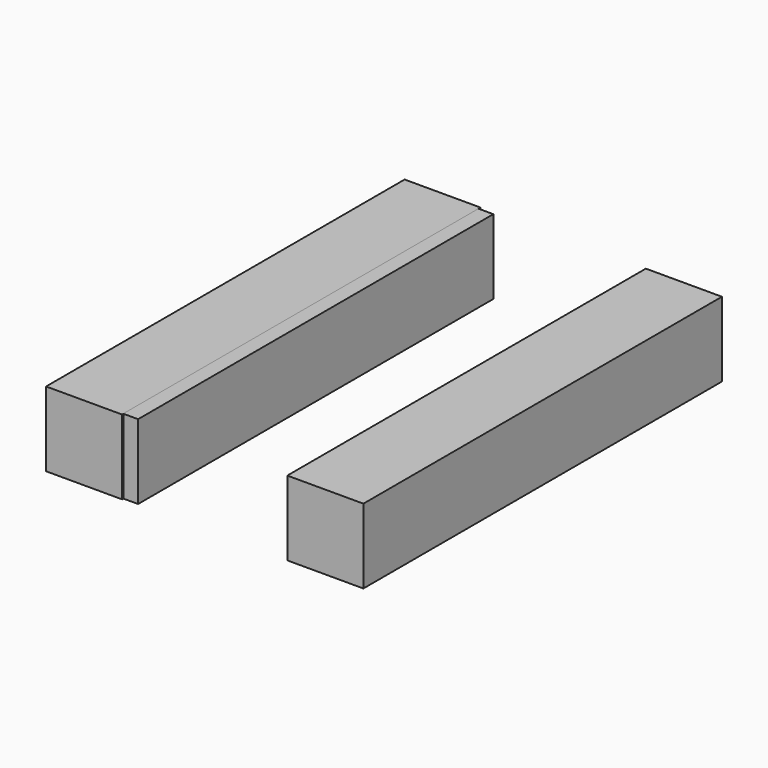
from build123d import *

# Parameters (mm, degrees)
F0_W     = 25.873177
F0_H     = 152.426794
F1_DEPTH = 25.4
F4_W     = 5.062144
F4_H     = 151.020631
F6_DEPTH = 25.4


with BuildPart() as f1:
    # F0 (on Top) → F1 (new body)
    with BuildSketch(Plane.XY):
        with Locations((-62.995571, -0.140615)):
            Rectangle(F0_W, F0_H)
    extrude(amount=F1_DEPTH)


with BuildPart() as f2_1:
    # F2: copy of F1
    add(f1.part.moved(Location((82.042, 0, 0))))


with BuildPart() as f3_1:
    # F3: copy of F2_1
    add(f2_1.part.moved(Location((-56.642, 0, 0))))


with BuildPart() as f6:
    # F4 (on Top) → F6 (new body)
    with BuildSketch(Plane.XY):
        with Locations((-22.217188, -0.28123)):
            Rectangle(F4_W, F4_H)
    extrude(amount=F6_DEPTH)


with BuildPart() as f7_1:
    # F7: copy of F6
    add(f6.part.moved(Location((-25.4, 0, 0))))


solid = Compound([f1.part, f2_1.part, f7_1.part])
